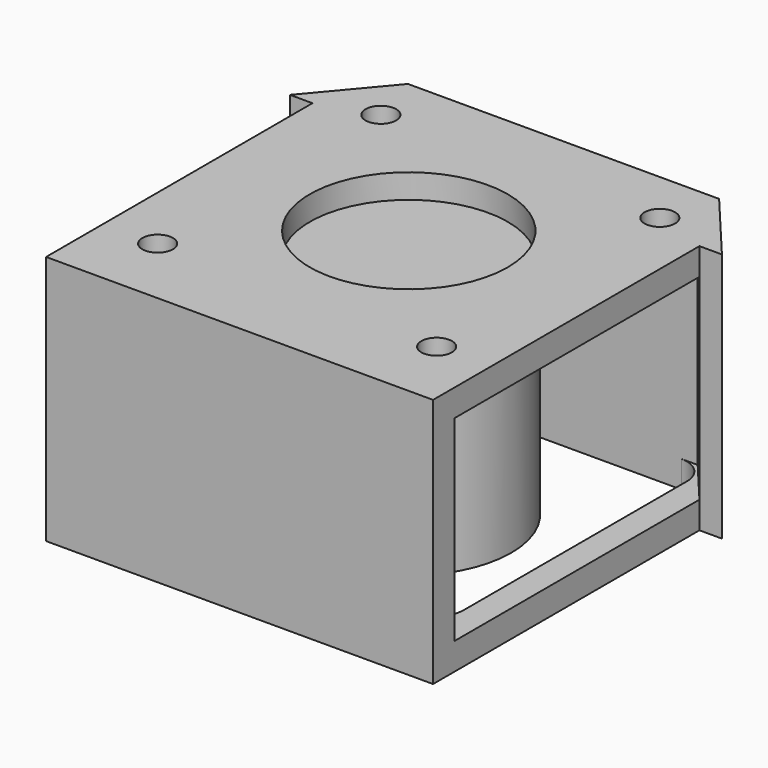
from build123d import *

# Parameters (mm, degrees)
HONEYCOMB_W     = 102.768347
HONEYCOMB_H     = 67
EXTRUDE_DEPTH   = 3
SKETCH013_W     = 34.574
SKETCH013_H     = 21.8
PAD006_DEPTH    = 2.4
SKETCH_W        = 43
SKETCH_H        = 45
PAD_DEPTH       = 3
SKETCH001_W     = 43
SKETCH001_H     = 3
PAD001_DEPTH    = 21.8
SKETCH002_W     = 43
SKETCH002_H     = 45
PAD002_DEPTH    = 3
SKETCH003_R     = 1.7
POCKET_DEPTH    = 27.801
SKETCH004_R     = 3
POCKET001_DEPTH = 3
SKETCH005_R     = 11
POCKET002_DEPTH = 27.801
PAD003_DEPTH    = 21.8
PAD004_DEPTH    = 27.8
POCKET003_DEPTH = 27.801
POCKET004_DEPTH = 3
PAD005_DEPTH    = 21.8
POCKET005_DEPTH = 27.801
SKETCH012_W     = 34.574406
SKETCH012_H     = 21.8
POCKET006_DEPTH = 2.4
SKETCH014_R     = 11
PAD007_DEPTH    = 0.3
SKETCH015_R     = 11.4
SKETCH015_R_2   = 11
PAD008_DEPTH    = 24.8
SKETCH016_R     = 11
PAD009_DEPTH    = 0.3
CHAMFER_SIZE    = 1
SKETCH017_R     = 1.7
PAD010_DEPTH    = 0.3


with BuildPart() as extrude_body:
    # Honeycomb → Extrude (new body)
    with BuildSketch(Plane(origin=(0.113829, 19.1, 0), x_dir=(-1, 0, 0), z_dir=(0, -1, 0))):
        with Locations((0.11383, 0)):
            Rectangle(HONEYCOMB_W, HONEYCOMB_H)
        Polygon((43.703775, 25.5), (42.260399, 28), (43.703775, 30.5), (46.590526, 30.5), (48.033902, 28), (46.590526, 25.5), align=None, mode=Mode.SUBTRACT)
        Polygon((43.703775, 17.5), (42.260399, 20), (43.703775, 22.5), (46.590526, 22.5), (48.033902, 20), (46.590526, 17.5), align=None, mode=Mode.SUBTRACT)
        Polygon((43.703775, 9.5), (42.260399, 12), (43.703775, 14.5), (46.590526, 14.5), (48.033902, 12), (46.590526, 9.5), align=None, mode=Mode.SUBTRACT)
        Polygon((43.703775, 1.5), (42.260399, 4), (43.703775, 6.5), (46.590526, 6.5), (48.033902, 4), (46.590526, 1.5), align=None, mode=Mode.SUBTRACT)
        Polygon((43.703775, -6.5), (42.260399, -4), (43.703775, -1.5), (46.590526, -1.5), (48.033902, -4), (46.590526, -6.5), align=None, mode=Mode.SUBTRACT)
        Polygon((43.703775, -14.5), (42.260399, -12), (43.703775, -9.5), (46.590526, -9.5), (48.033902, -12), (46.590526, -14.5), align=None, mode=Mode.SUBTRACT)
        Polygon((43.703775, -22.5), (42.260399, -20), (43.703775, -17.5), (46.590526, -17.5), (48.033902, -20), (46.590526, -22.5), align=None, mode=Mode.SUBTRACT)
        Polygon((43.703775, -30.5), (42.260399, -28), (43.703775, -25.5), (46.590526, -25.5), (48.033902, -28), (46.590526, -30.5), align=None, mode=Mode.SUBTRACT)
        Polygon((36.775572, 21.5), (35.332196, 24), (36.775572, 26.5), (39.662323, 26.5), (41.105699, 24), (39.662323, 21.5), align=None, mode=Mode.SUBTRACT)
        Polygon((36.775572, 13.5), (35.332196, 16), (36.775572, 18.5), (39.662323, 18.5), (41.105699, 16), (39.662323, 13.5), align=None, mode=Mode.SUBTRACT)
        Polygon((36.775572, 5.5), (35.332196, 8), (36.775572, 10.5), (39.662323, 10.5), (41.105699, 8), (39.662323, 5.5), align=None, mode=Mode.SUBTRACT)
        Polygon((36.775572, -2.5), (35.332196, 0), (36.775572, 2.5), (39.662323, 2.5), (41.105699, 0), (39.662323, -2.5), align=None, mode=Mode.SUBTRACT)
        Polygon((36.775572, -10.5), (35.332196, -8), (36.775572, -5.5), (39.662323, -5.5), (41.105699, -8), (39.662323, -10.5), align=None, mode=Mode.SUBTRACT)
        Polygon((36.775572, -18.5), (35.332196, -16), (36.775572, -13.5), (39.662323, -13.5), (41.105699, -16), (39.662323, -18.5), align=None, mode=Mode.SUBTRACT)
        Polygon((36.775572, -26.5), (35.332196, -24), (36.775572, -21.5), (39.662323, -21.5), (41.105699, -24), (39.662323, -26.5), align=None, mode=Mode.SUBTRACT)
        Polygon((29.847368, 25.5), (28.403993, 28), (29.847368, 30.5), (32.73412, 30.5), (34.177495, 28), (32.73412, 25.5), align=None, mode=Mode.SUBTRACT)
        Polygon((29.847368, 17.5), (28.403993, 20), (29.847368, 22.5), (32.73412, 22.5), (34.177495, 20), (32.73412, 17.5), align=None, mode=Mode.SUBTRACT)
        Polygon((29.847368, 9.5), (28.403993, 12), (29.847368, 14.5), (32.73412, 14.5), (34.177495, 12), (32.73412, 9.5), align=None, mode=Mode.SUBTRACT)
        Polygon((29.847368, 1.5), (28.403993, 4), (29.847368, 6.5), (32.73412, 6.5), (34.177495, 4), (32.73412, 1.5), align=None, mode=Mode.SUBTRACT)
        Polygon((29.847368, -6.5), (28.403993, -4), (29.847368, -1.5), (32.73412, -1.5), (34.177495, -4), (32.73412, -6.5), align=None, mode=Mode.SUBTRACT)
        Polygon((29.847368, -14.5), (28.403993, -12), (29.847368, -9.5), (32.73412, -9.5), (34.177495, -12), (32.73412, -14.5), align=None, mode=Mode.SUBTRACT)
        Polygon((29.847368, -22.5), (28.403993, -20), (29.847368, -17.5), (32.73412, -17.5), (34.177495, -20), (32.73412, -22.5), align=None, mode=Mode.SUBTRACT)
        Polygon((29.847368, -30.5), (28.403993, -28), (29.847368, -25.5), (32.73412, -25.5), (34.177495, -28), (32.73412, -30.5), align=None, mode=Mode.SUBTRACT)
        Polygon((22.919165, 21.5), (21.475789, 24), (22.919165, 26.5), (25.805916, 26.5), (27.249292, 24), (25.805916, 21.5), align=None, mode=Mode.SUBTRACT)
        Polygon((22.919165, 13.5), (21.475789, 16), (22.919165, 18.5), (25.805916, 18.5), (27.249292, 16), (25.805916, 13.5), align=None, mode=Mode.SUBTRACT)
        Polygon((22.919165, 5.5), (21.475789, 8), (22.919165, 10.5), (25.805916, 10.5), (27.249292, 8), (25.805916, 5.5), align=None, mode=Mode.SUBTRACT)
        Polygon((22.919165, -2.5), (21.475789, 0), (22.919165, 2.5), (25.805916, 2.5), (27.249292, 0), (25.805916, -2.5), align=None, mode=Mode.SUBTRACT)
        Polygon((22.919165, -10.5), (21.475789, -8), (22.919165, -5.5), (25.805916, -5.5), (27.249292, -8), (25.805916, -10.5), align=None, mode=Mode.SUBTRACT)
        Polygon((22.919165, -18.5), (21.475789, -16), (22.919165, -13.5), (25.805916, -13.5), (27.249292, -16), (25.805916, -18.5), align=None, mode=Mode.SUBTRACT)
        Polygon((22.919165, -26.5), (21.475789, -24), (22.919165, -21.5), (25.805916, -21.5), (27.249292, -24), (25.805916, -26.5), align=None, mode=Mode.SUBTRACT)
        Polygon((15.990962, 25.5), (14.547586, 28), (15.990962, 30.5), (18.877713, 30.5), (20.321089, 28), (18.877713, 25.5), align=None, mode=Mode.SUBTRACT)
        Polygon((15.990962, 17.5), (14.547586, 20), (15.990962, 22.5), (18.877713, 22.5), (20.321089, 20), (18.877713, 17.5), align=None, mode=Mode.SUBTRACT)
        Polygon((15.990962, 9.5), (14.547586, 12), (15.990962, 14.5), (18.877713, 14.5), (20.321089, 12), (18.877713, 9.5), align=None, mode=Mode.SUBTRACT)
        Polygon((15.990962, 1.5), (14.547586, 4), (15.990962, 6.5), (18.877713, 6.5), (20.321089, 4), (18.877713, 1.5), align=None, mode=Mode.SUBTRACT)
        Polygon((15.990962, -6.5), (14.547586, -4), (15.990962, -1.5), (18.877713, -1.5), (20.321089, -4), (18.877713, -6.5), align=None, mode=Mode.SUBTRACT)
        Polygon((15.990962, -14.5), (14.547586, -12), (15.990962, -9.5), (18.877713, -9.5), (20.321089, -12), (18.877713, -14.5), align=None, mode=Mode.SUBTRACT)
        Polygon((15.990962, -22.5), (14.547586, -20), (15.990962, -17.5), (18.877713, -17.5), (20.321089, -20), (18.877713, -22.5), align=None, mode=Mode.SUBTRACT)
        Polygon((15.990962, -30.5), (14.547586, -28), (15.990962, -25.5), (18.877713, -25.5), (20.321089, -28), (18.877713, -30.5), align=None, mode=Mode.SUBTRACT)
        Polygon((9.062759, 21.5), (7.619383, 24), (9.062759, 26.5), (11.94951, 26.5), (13.392886, 24), (11.94951, 21.5), align=None, mode=Mode.SUBTRACT)
        Polygon((9.062759, 13.5), (7.619383, 16), (9.062759, 18.5), (11.94951, 18.5), (13.392886, 16), (11.94951, 13.5), align=None, mode=Mode.SUBTRACT)
        Polygon((9.062759, 5.5), (7.619383, 8), (9.062759, 10.5), (11.94951, 10.5), (13.392886, 8), (11.94951, 5.5), align=None, mode=Mode.SUBTRACT)
        Polygon((9.062759, -2.5), (7.619383, 0), (9.062759, 2.5), (11.94951, 2.5), (13.392886, 0), (11.94951, -2.5), align=None, mode=Mode.SUBTRACT)
        Polygon((9.062759, -10.5), (7.619383, -8), (9.062759, -5.5), (11.94951, -5.5), (13.392886, -8), (11.94951, -10.5), align=None, mode=Mode.SUBTRACT)
        Polygon((9.062759, -18.5), (7.619383, -16), (9.062759, -13.5), (11.94951, -13.5), (13.392886, -16), (11.94951, -18.5), align=None, mode=Mode.SUBTRACT)
        Polygon((9.062759, -26.5), (7.619383, -24), (9.062759, -21.5), (11.94951, -21.5), (13.392886, -24), (11.94951, -26.5), align=None, mode=Mode.SUBTRACT)
        Polygon((2.134555, 25.5), (0.69118, 28), (2.134555, 30.5), (5.021307, 30.5), (6.464682, 28), (5.021307, 25.5), align=None, mode=Mode.SUBTRACT)
        Polygon((2.134555, 17.5), (0.69118, 20), (2.134555, 22.5), (5.021307, 22.5), (6.464682, 20), (5.021307, 17.5), align=None, mode=Mode.SUBTRACT)
        Polygon((2.134555, 9.5), (0.69118, 12), (2.134555, 14.5), (5.021307, 14.5), (6.464682, 12), (5.021307, 9.5), align=None, mode=Mode.SUBTRACT)
        Polygon((2.134555, 1.5), (0.69118, 4), (2.134555, 6.5), (5.021307, 6.5), (6.464682, 4), (5.021307, 1.5), align=None, mode=Mode.SUBTRACT)
        Polygon((2.134555, -6.5), (0.69118, -4), (2.134555, -1.5), (5.021307, -1.5), (6.464682, -4), (5.021307, -6.5), align=None, mode=Mode.SUBTRACT)
        Polygon((2.134555, -14.5), (0.69118, -12), (2.134555, -9.5), (5.021307, -9.5), (6.464682, -12), (5.021307, -14.5), align=None, mode=Mode.SUBTRACT)
        Polygon((2.134555, -22.5), (0.69118, -20), (2.134555, -17.5), (5.021307, -17.5), (6.464682, -20), (5.021307, -22.5), align=None, mode=Mode.SUBTRACT)
        Polygon((2.134555, -30.5), (0.69118, -28), (2.134555, -25.5), (5.021307, -25.5), (6.464682, -28), (5.021307, -30.5), align=None, mode=Mode.SUBTRACT)
        Polygon((-4.793648, 21.5), (-6.237023, 24), (-4.793648, 26.5), (-1.906896, 26.5), (-0.463521, 24), (-1.906896, 21.5), align=None, mode=Mode.SUBTRACT)
        Polygon((-4.793648, 13.5), (-6.237023, 16), (-4.793648, 18.5), (-1.906896, 18.5), (-0.463521, 16), (-1.906896, 13.5), align=None, mode=Mode.SUBTRACT)
        Polygon((-4.793648, 5.5), (-6.237023, 8), (-4.793648, 10.5), (-1.906896, 10.5), (-0.463521, 8), (-1.906896, 5.5), align=None, mode=Mode.SUBTRACT)
        Polygon((-4.793648, -2.5), (-6.237023, 0), (-4.793648, 2.5), (-1.906896, 2.5), (-0.463521, 0), (-1.906896, -2.5), align=None, mode=Mode.SUBTRACT)
        Polygon((-4.793648, -10.5), (-6.237023, -8), (-4.793648, -5.5), (-1.906896, -5.5), (-0.463521, -8), (-1.906896, -10.5), align=None, mode=Mode.SUBTRACT)
        Polygon((-4.793648, -18.5), (-6.237023, -16), (-4.793648, -13.5), (-1.906896, -13.5), (-0.463521, -16), (-1.906896, -18.5), align=None, mode=Mode.SUBTRACT)
        Polygon((-4.793648, -26.5), (-6.237023, -24), (-4.793648, -21.5), (-1.906896, -21.5), (-0.463521, -24), (-1.906896, -26.5), align=None, mode=Mode.SUBTRACT)
        Polygon((-11.721851, 25.5), (-13.165227, 28), (-11.721851, 30.5), (-8.8351, 30.5), (-7.391724, 28), (-8.8351, 25.5), align=None, mode=Mode.SUBTRACT)
        Polygon((-11.721851, 17.5), (-13.165227, 20), (-11.721851, 22.5), (-8.8351, 22.5), (-7.391724, 20), (-8.8351, 17.5), align=None, mode=Mode.SUBTRACT)
        Polygon((-11.721851, 9.5), (-13.165227, 12), (-11.721851, 14.5), (-8.8351, 14.5), (-7.391724, 12), (-8.8351, 9.5), align=None, mode=Mode.SUBTRACT)
        Polygon((-11.721851, 1.5), (-13.165227, 4), (-11.721851, 6.5), (-8.8351, 6.5), (-7.391724, 4), (-8.8351, 1.5), align=None, mode=Mode.SUBTRACT)
        Polygon((-11.721851, -6.5), (-13.165227, -4), (-11.721851, -1.5), (-8.8351, -1.5), (-7.391724, -4), (-8.8351, -6.5), align=None, mode=Mode.SUBTRACT)
        Polygon((-11.721851, -14.5), (-13.165227, -12), (-11.721851, -9.5), (-8.8351, -9.5), (-7.391724, -12), (-8.8351, -14.5), align=None, mode=Mode.SUBTRACT)
        Polygon((-11.721851, -22.5), (-13.165227, -20), (-11.721851, -17.5), (-8.8351, -17.5), (-7.391724, -20), (-8.8351, -22.5), align=None, mode=Mode.SUBTRACT)
        Polygon((-11.721851, -30.5), (-13.165227, -28), (-11.721851, -25.5), (-8.8351, -25.5), (-7.391724, -28), (-8.8351, -30.5), align=None, mode=Mode.SUBTRACT)
        Polygon((-18.650054, 21.5), (-20.09343, 24), (-18.650054, 26.5), (-15.763303, 26.5), (-14.319927, 24), (-15.763303, 21.5), align=None, mode=Mode.SUBTRACT)
        Polygon((-18.650054, 13.5), (-20.09343, 16), (-18.650054, 18.5), (-15.763303, 18.5), (-14.319927, 16), (-15.763303, 13.5), align=None, mode=Mode.SUBTRACT)
        Polygon((-18.650054, 5.5), (-20.09343, 8), (-18.650054, 10.5), (-15.763303, 10.5), (-14.319927, 8), (-15.763303, 5.5), align=None, mode=Mode.SUBTRACT)
        Polygon((-18.650054, -2.5), (-20.09343, 0), (-18.650054, 2.5), (-15.763303, 2.5), (-14.319927, 0), (-15.763303, -2.5), align=None, mode=Mode.SUBTRACT)
        Polygon((-18.650054, -10.5), (-20.09343, -8), (-18.650054, -5.5), (-15.763303, -5.5), (-14.319927, -8), (-15.763303, -10.5), align=None, mode=Mode.SUBTRACT)
        Polygon((-18.650054, -18.5), (-20.09343, -16), (-18.650054, -13.5), (-15.763303, -13.5), (-14.319927, -16), (-15.763303, -18.5), align=None, mode=Mode.SUBTRACT)
        Polygon((-18.650054, -26.5), (-20.09343, -24), (-18.650054, -21.5), (-15.763303, -21.5), (-14.319927, -24), (-15.763303, -26.5), align=None, mode=Mode.SUBTRACT)
        Polygon((-25.578258, 25.5), (-27.021633, 28), (-25.578258, 30.5), (-22.691506, 30.5), (-21.24813, 28), (-22.691506, 25.5), align=None, mode=Mode.SUBTRACT)
        Polygon((-25.578258, 17.5), (-27.021633, 20), (-25.578258, 22.5), (-22.691506, 22.5), (-21.24813, 20), (-22.691506, 17.5), align=None, mode=Mode.SUBTRACT)
        Polygon((-25.578258, 9.5), (-27.021633, 12), (-25.578258, 14.5), (-22.691506, 14.5), (-21.24813, 12), (-22.691506, 9.5), align=None, mode=Mode.SUBTRACT)
        Polygon((-25.578258, 1.5), (-27.021633, 4), (-25.578258, 6.5), (-22.691506, 6.5), (-21.24813, 4), (-22.691506, 1.5), align=None, mode=Mode.SUBTRACT)
        Polygon((-25.578258, -6.5), (-27.021633, -4), (-25.578258, -1.5), (-22.691506, -1.5), (-21.24813, -4), (-22.691506, -6.5), align=None, mode=Mode.SUBTRACT)
        Polygon((-25.578258, -14.5), (-27.021633, -12), (-25.578258, -9.5), (-22.691506, -9.5), (-21.24813, -12), (-22.691506, -14.5), align=None, mode=Mode.SUBTRACT)
        Polygon((-25.578258, -22.5), (-27.021633, -20), (-25.578258, -17.5), (-22.691506, -17.5), (-21.24813, -20), (-22.691506, -22.5), align=None, mode=Mode.SUBTRACT)
        Polygon((-25.578258, -30.5), (-27.021633, -28), (-25.578258, -25.5), (-22.691506, -25.5), (-21.24813, -28), (-22.691506, -30.5), align=None, mode=Mode.SUBTRACT)
        Polygon((-32.506461, 21.5), (-33.949836, 24), (-32.506461, 26.5), (-29.619709, 26.5), (-28.176334, 24), (-29.619709, 21.5), align=None, mode=Mode.SUBTRACT)
        Polygon((-32.506461, 13.5), (-33.949836, 16), (-32.506461, 18.5), (-29.619709, 18.5), (-28.176334, 16), (-29.619709, 13.5), align=None, mode=Mode.SUBTRACT)
        Polygon((-32.506461, 5.5), (-33.949836, 8), (-32.506461, 10.5), (-29.619709, 10.5), (-28.176334, 8), (-29.619709, 5.5), align=None, mode=Mode.SUBTRACT)
        Polygon((-32.506461, -2.5), (-33.949836, 0), (-32.506461, 2.5), (-29.619709, 2.5), (-28.176334, 0), (-29.619709, -2.5), align=None, mode=Mode.SUBTRACT)
        Polygon((-32.506461, -10.5), (-33.949836, -8), (-32.506461, -5.5), (-29.619709, -5.5), (-28.176334, -8), (-29.619709, -10.5), align=None, mode=Mode.SUBTRACT)
        Polygon((-32.506461, -18.5), (-33.949836, -16), (-32.506461, -13.5), (-29.619709, -13.5), (-28.176334, -16), (-29.619709, -18.5), align=None, mode=Mode.SUBTRACT)
        Polygon((-32.506461, -26.5), (-33.949836, -24), (-32.506461, -21.5), (-29.619709, -21.5), (-28.176334, -24), (-29.619709, -26.5), align=None, mode=Mode.SUBTRACT)
        Polygon((-39.434664, 25.5), (-40.87804, 28), (-39.434664, 30.5), (-36.547913, 30.5), (-35.104537, 28), (-36.547913, 25.5), align=None, mode=Mode.SUBTRACT)
        Polygon((-39.434664, 17.5), (-40.87804, 20), (-39.434664, 22.5), (-36.547913, 22.5), (-35.104537, 20), (-36.547913, 17.5), align=None, mode=Mode.SUBTRACT)
        Polygon((-39.434664, 9.5), (-40.87804, 12), (-39.434664, 14.5), (-36.547913, 14.5), (-35.104537, 12), (-36.547913, 9.5), align=None, mode=Mode.SUBTRACT)
        Polygon((-39.434664, 1.5), (-40.87804, 4), (-39.434664, 6.5), (-36.547913, 6.5), (-35.104537, 4), (-36.547913, 1.5), align=None, mode=Mode.SUBTRACT)
        Polygon((-39.434664, -6.5), (-40.87804, -4), (-39.434664, -1.5), (-36.547913, -1.5), (-35.104537, -4), (-36.547913, -6.5), align=None, mode=Mode.SUBTRACT)
        Polygon((-39.434664, -14.5), (-40.87804, -12), (-39.434664, -9.5), (-36.547913, -9.5), (-35.104537, -12), (-36.547913, -14.5), align=None, mode=Mode.SUBTRACT)
        Polygon((-39.434664, -22.5), (-40.87804, -20), (-39.434664, -17.5), (-36.547913, -17.5), (-35.104537, -20), (-36.547913, -22.5), align=None, mode=Mode.SUBTRACT)
        Polygon((-39.434664, -30.5), (-40.87804, -28), (-39.434664, -25.5), (-36.547913, -25.5), (-35.104537, -28), (-36.547913, -30.5), align=None, mode=Mode.SUBTRACT)
        Polygon((-46.362867, 21.5), (-47.806243, 24), (-46.362867, 26.5), (-43.476116, 26.5), (-42.03274, 24), (-43.476116, 21.5), align=None, mode=Mode.SUBTRACT)
        Polygon((-46.362867, 13.5), (-47.806243, 16), (-46.362867, 18.5), (-43.476116, 18.5), (-42.03274, 16), (-43.476116, 13.5), align=None, mode=Mode.SUBTRACT)
        Polygon((-46.362867, 5.5), (-47.806243, 8), (-46.362867, 10.5), (-43.476116, 10.5), (-42.03274, 8), (-43.476116, 5.5), align=None, mode=Mode.SUBTRACT)
        Polygon((-46.362867, -2.5), (-47.806243, 0), (-46.362867, 2.5), (-43.476116, 2.5), (-42.03274, 0), (-43.476116, -2.5), align=None, mode=Mode.SUBTRACT)
        Polygon((-46.362867, -10.5), (-47.806243, -8), (-46.362867, -5.5), (-43.476116, -5.5), (-42.03274, -8), (-43.476116, -10.5), align=None, mode=Mode.SUBTRACT)
        Polygon((-46.362867, -18.5), (-47.806243, -16), (-46.362867, -13.5), (-43.476116, -13.5), (-42.03274, -16), (-43.476116, -18.5), align=None, mode=Mode.SUBTRACT)
        Polygon((-46.362867, -26.5), (-47.806243, -24), (-46.362867, -21.5), (-43.476116, -21.5), (-42.03274, -24), (-43.476116, -26.5), align=None, mode=Mode.SUBTRACT)
    extrude(amount=-EXTRUDE_DEPTH)


with BuildPart() as common:
    # Sketch013 → Pad006 (new body)
    with BuildSketch(Plane(origin=(0, 19.1, 0), x_dir=(-1, 0, 0), z_dir=(0, 1, 0))):
        with Locations((0, 13.9)):
            Rectangle(SKETCH013_W, SKETCH013_H)
    extrude(amount=PAD006_DEPTH)

    # Common: intersect Extrude body
    add(extrude_body.part, mode=Mode.INTERSECT)


with BuildPart() as obj1:
    # Sketch → Pad (new body)
    with BuildSketch(Plane.XY):
        with Locations((0, -1)):
            Rectangle(SKETCH_W, SKETCH_H)
    extrude(amount=PAD_DEPTH)

    # Sketch001 → Pad001 (new body)
    with BuildSketch(Plane.XY.offset(3)):
        with Locations((0, 20)):
            Rectangle(SKETCH001_W, SKETCH001_H)
        with Locations((0, -22)):
            Rectangle(SKETCH001_W, SKETCH001_H)
    extrude(amount=PAD001_DEPTH)

    # Sketch002 → Pad002 (new body)
    with BuildSketch(Plane.XY.offset(24.8)):
        with Locations((0, -1)):
            Rectangle(SKETCH002_W, SKETCH002_H)
    extrude(amount=PAD002_DEPTH)

    # Sketch003 → Pocket (cut, through all)
    with BuildSketch(Plane.XY.offset(27.8)):
        with Locations((-15.5, 15.5)):
            Circle(SKETCH003_R)
        with Locations((15.5, 15.5)):
            Circle(SKETCH003_R)
        with Locations((15.5, -15.5)):
            Circle(SKETCH003_R)
        with Locations((-15.5, -15.5)):
            Circle(SKETCH003_R)
    extrude(amount=-POCKET_DEPTH, mode=Mode.SUBTRACT)

    # Sketch004 → Pocket001 (cut)
    with BuildSketch(Plane(origin=(0, 0, 0), x_dir=(1, 0, 0), z_dir=(0, 0, -1))):
        with Locations((-15.5, 15.5)):
            Circle(SKETCH004_R)
        with Locations((15.5, 15.5)):
            Circle(SKETCH004_R)
        with Locations((15.5, -15.5)):
            Circle(SKETCH004_R)
        with Locations((-15.5, -15.5)):
            Circle(SKETCH004_R)
    extrude(amount=-POCKET001_DEPTH, mode=Mode.SUBTRACT)

    # Sketch005 → Pocket002 (cut, through all)
    with BuildSketch(Plane(origin=(0, 0, 0), x_dir=(1, 0, 0), z_dir=(0, 0, -1))):
        Circle(SKETCH005_R)
    extrude(amount=-POCKET002_DEPTH, mode=Mode.SUBTRACT)

    # Sketch006 → Pad003 (new body)
    with BuildSketch(Plane.XY.offset(3)):
        Polygon((-21.5, 18.5), (-18.5, 18.5), (-18.5, 17.075261), (-21.5, 13.5), align=None)
        Polygon((21.5, 18.5), (18.5, 18.5), (18.5, 17.075261), (21.5, 13.5), align=None)
    extrude(amount=PAD003_DEPTH)

    # Sketch007 → Pad004 (new body)
    with BuildSketch(Plane(origin=(0, 0, 0), x_dir=(1, 0, 0), z_dir=(0, 0, -1))):
        Polygon((-21.5, -16.479384), (-24, -13.5), (-21.5, -13.5), align=None)
        Polygon((21.5, -13.5), (24, -13.5), (21.5, -16.479384), align=None)
    extrude(amount=-PAD004_DEPTH)

    # Sketch008 → Pocket003 (cut, through all)
    with BuildSketch(Plane(origin=(0, 0, 0), x_dir=(1, 0, 0), z_dir=(0, 0, -1))):
        Polygon((-21.5, -19), (-19, -21.5), (-21.5, -21.5), align=None)
        Polygon((19, -21.5), (21.5, -19), (21.5, -21.5), align=None)
    extrude(amount=-POCKET003_DEPTH, mode=Mode.SUBTRACT)

    # Sketch009 → Pocket004 (cut)
    with BuildSketch(Plane(origin=(0, 0, 0), x_dir=(1, 0, 0), z_dir=(0, 0, -1))):
        with BuildLine():
            ThreePointArc((-15.5, 18.5), (-17.621577, 17.621064), (-18.5, 15.499275))
            Line((-18.5, -15.499275), (-18.5, 15.499275))
            ThreePointArc((-18.5, -15.499275), (-17.621577, -17.621064), (-15.5, -18.5))
            Line((-15.5, -18.5), (15.5, -18.5))
            ThreePointArc((15.5, -18.5), (17.62132, -17.62132), (18.5, -15.5))
            Line((18.5, 15.5), (18.5, -15.5))
            ThreePointArc((18.5, 15.5), (17.62132, 17.62132), (15.5, 18.5))
            Line((-15.5, 18.5), (15.5, 18.5))
        make_face()
    extrude(amount=-POCKET004_DEPTH, mode=Mode.SUBTRACT)

    # Sketch010 → Pad005 (new body)
    with BuildSketch(Plane(origin=(0, 0, 24.8), x_dir=(1, 0, 0), z_dir=(0, 0, -1))):
        Polygon((18.5, -17.075261), (17.304502, -18.5), (18.5, -18.5), align=None)
        Polygon((-18.5, -17.075261), (-17.304502, -18.5), (-18.5, -18.5), align=None)
    extrude(amount=PAD005_DEPTH)

    # Sketch011 → Pocket005 (cut, through all)
    with BuildSketch(Plane(origin=(0, 0, 0), x_dir=(1, 0, 0), z_dir=(0, 0, -1))):
        Polygon((-21.5, -16.479384), (-17.287203, -21.5), (17.287203, -21.5), (21.5, -16.479384), (21.5, -23.5), (-21.5, -23.5), align=None)
    extrude(amount=-POCKET005_DEPTH, mode=Mode.SUBTRACT)

    # Sketch012 → Pocket006 (cut)
    with BuildSketch(Plane(origin=(0, 21.5, 0), x_dir=(-1, 0, 0), z_dir=(0, 1, 0))):
        with Locations((0, 13.9)):
            Rectangle(SKETCH012_W, SKETCH012_H)
    extrude(amount=-POCKET006_DEPTH, mode=Mode.SUBTRACT)

    # Fusion: union Common
    add(common.part)

    # Sketch014 → Pad007 (new body)
    with BuildSketch(Plane(origin=(0, 0, 24.8), x_dir=(1, 0, 0), z_dir=(0, 0, -1))):
        Circle(SKETCH014_R)
    extrude(amount=-PAD007_DEPTH)

    # Sketch015 → Pad008 (new body)
    with BuildSketch(Plane(origin=(0, 0, 24.8), x_dir=(1, 0, 0), z_dir=(0, 0, -1))):
        Circle(SKETCH015_R)
        Circle(SKETCH015_R_2, mode=Mode.SUBTRACT)
    extrude(amount=PAD008_DEPTH)

    # Sketch016 → Pad009 (new body)
    with BuildSketch(Plane(origin=(0, 0, 0), x_dir=(1, 0, 0), z_dir=(0, 0, -1))):
        Circle(SKETCH016_R)
    extrude(amount=-PAD009_DEPTH)

    # Chamfer
    chamfer_edges = [obj1.edges().sort_by_distance(p)[0] for p in [
        (-11.4, 0, 24.8),
    ]]
    chamfer(chamfer_edges, length=CHAMFER_SIZE)

    # Sketch017 → Pad010 (new body)
    with BuildSketch(Plane(origin=(0, 0, 24.8), x_dir=(1, 0, 0), z_dir=(0, 0, -1))):
        with Locations((-15.5, 15.5)):
            Circle(SKETCH017_R)
        with Locations((15.5, 15.5)):
            Circle(SKETCH017_R)
        with Locations((-15.5, -15.5)):
            Circle(SKETCH017_R)
        with Locations((15.5, -15.5)):
            Circle(SKETCH017_R)
    extrude(amount=-PAD010_DEPTH)


solid = obj1.part
